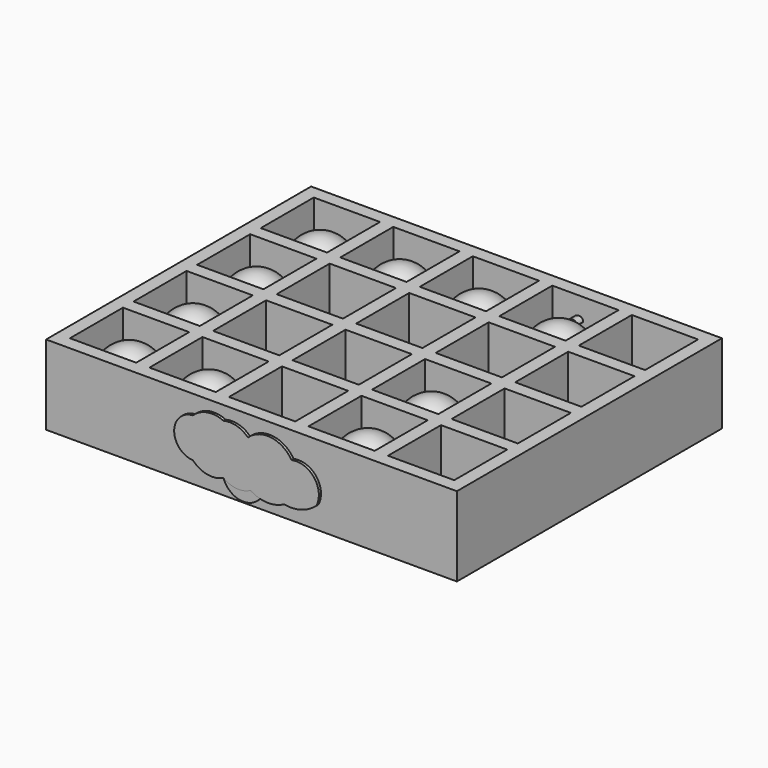
from build123d import *

# Parameters (mm, degrees)
F2_W      = 155
F2_H      = 125
F3_DEPTH  = 5
F4_W      = 155
F4_H      = 125
F4_W_2    = 25
F4_H_2    = 25
F5_DEPTH  = 25
F13_DEPTH = 3
F21_DEPTH = 1
F22_R     = 7.9297764806
F23_DEPTH = 0.75


with BuildPart() as f3:
    # F2 (on Top) → F3 (new body)
    with BuildSketch(Plane.XY):
        with Locations((0.9303614497, -12.7479173378)):
            Rectangle(F2_W, F2_H)
    extrude(amount=F3_DEPTH)

    # F4 (on face) → F5 (join)
    with BuildSketch(Plane.XY.offset(5)):
        with Locations((0.9303614497, -12.7479173378)):
            Rectangle(F4_W, F4_H)
        with Locations((-59.0696385503, -57.7479173378)):
            Rectangle(F4_W_2, F4_H_2, mode=Mode.SUBTRACT)
        with Locations((-29.0696385503, -57.7479173378)):
            Rectangle(F4_W_2, F4_H_2, mode=Mode.SUBTRACT)
        with Locations((-59.0696385503, -27.7479173378)):
            Rectangle(F4_W_2, F4_H_2, mode=Mode.SUBTRACT)
        with Locations((-29.0696385503, -27.7479173378)):
            Rectangle(F4_W_2, F4_H_2, mode=Mode.SUBTRACT)
        with Locations((0.9303614497, -57.7479173378)):
            Rectangle(F4_W_2, F4_H_2, mode=Mode.SUBTRACT)
        with Locations((30.9303614497, -57.7479173378)):
            Rectangle(F4_W_2, F4_H_2, mode=Mode.SUBTRACT)
        with Locations((60.9303614497, -57.7479173378)):
            Rectangle(F4_W_2, F4_H_2, mode=Mode.SUBTRACT)
        with Locations((0.9303614497, -27.7479173378)):
            Rectangle(F4_W_2, F4_H_2, mode=Mode.SUBTRACT)
        with Locations((30.9303614497, -27.7479173378)):
            Rectangle(F4_W_2, F4_H_2, mode=Mode.SUBTRACT)
        with Locations((60.9303614497, -27.7479173378)):
            Rectangle(F4_W_2, F4_H_2, mode=Mode.SUBTRACT)
        with Locations((-59.0696385503, 2.2520826622)):
            Rectangle(F4_W_2, F4_H_2, mode=Mode.SUBTRACT)
        with Locations((-29.0696385503, 2.2520826622)):
            Rectangle(F4_W_2, F4_H_2, mode=Mode.SUBTRACT)
        with Locations((-59.0696385503, 32.2520826622)):
            Rectangle(F4_W_2, F4_H_2, mode=Mode.SUBTRACT)
        with Locations((-29.0696385503, 32.2520826622)):
            Rectangle(F4_W_2, F4_H_2, mode=Mode.SUBTRACT)
        with Locations((0.9303614497, 2.2520826622)):
            Rectangle(F4_W_2, F4_H_2, mode=Mode.SUBTRACT)
        with Locations((30.9303614497, 2.2520826622)):
            Rectangle(F4_W_2, F4_H_2, mode=Mode.SUBTRACT)
        with Locations((60.9303614497, 2.2520826622)):
            Rectangle(F4_W_2, F4_H_2, mode=Mode.SUBTRACT)
        with Locations((0.9303614497, 32.2520826622)):
            Rectangle(F4_W_2, F4_H_2, mode=Mode.SUBTRACT)
        with Locations((30.9303614497, 32.2520826622)):
            Rectangle(F4_W_2, F4_H_2, mode=Mode.SUBTRACT)
        with Locations((60.9303614497, 32.2520826622)):
            Rectangle(F4_W_2, F4_H_2, mode=Mode.SUBTRACT)
    extrude(amount=F5_DEPTH)


with BuildPart() as f8:
    # F7 (on offset) → F8 (revolve)
    with BuildSketch(Plane.XZ.offset(-32.2520826622)):
        with BuildLine():
            Line((-59.201605618, 27), (-59.201605618, 5))
            ThreePointArc((-59.201605618, 5), (-48.201605618, 16), (-59.201605618, 27))
        make_face()
    revolve(axis=Axis((-59.201605618, 32.2520826622, 16), (0, 0, 1)))


with BuildPart() as f9_1:
    # F9: copy of F8
    add(f8.part.moved(Location((30, 0, 0))))


with BuildPart() as f10_1:
    # F10: copy of F9_1
    add(f9_1.part.moved(Location((30, 0, 0))))


with BuildPart() as f11_1:
    # F11: copy of F10_1
    add(f10_1.part.moved(Location((30, 0, 0))))


with BuildPart() as f13:
    # F12 (on face) → F13 (new body)
    with BuildSketch(Plane.XZ.offset(-44.7520826622)):
        with BuildLine():
            add(Edge.make_bspline(
                [(26.5906639397, 22.1947636455), (26.6745791003, 22.7662725429), (29.0443807028, 24.000067625), (30.7595576466, 21.5087950265), (28.182591918, 20.8331535894), (26.5178643051, 21.6989576601), (26.5906639397, 22.1947636455)],
                knots=[0, 0, 0, 0, 0.2762395055, 0.514479703, 0.760351587, 1, 1, 1, 1], degree=3))
        make_face()
    extrude(amount=F13_DEPTH)


with BuildPart() as f14_1:
    # F14: copy of F8
    add(f8.part.moved(Location((0, -30, 0))))


with BuildPart() as f15_1:
    # F15: copy of F14_1
    add(f14_1.part.moved(Location((0, -30, 0))))


with BuildPart() as f16_1:
    # F16: copy of F15_1
    add(f15_1.part.moved(Location((90, 0, 0))))


with BuildPart() as f17_1:
    # F17: copy of F15_1
    add(f15_1.part.moved(Location((0, -30, 0))))


with BuildPart() as f18_1:
    # F18: copy of F17_1
    add(f17_1.part.moved(Location((30, 0, 0))))


with BuildPart() as f19_1:
    # F19: copy of F18_1
    add(f18_1.part.moved(Location((60, 0, 0))))


with BuildPart() as f21:
    # F20 (on face) → F21 (new body)
    with BuildSketch(Plane.XZ.offset(75.2479173378)):
        with BuildLine():
            ThreePointArc((-8.8187816294, 25.4081484305), (-14.900103785, 26.2255026877), (-20.3775379412, 23.4599535186))
            ThreePointArc((-20.3775379412, 23.4599535186), (-27.4413084136, 16.0073899584), (-20.3775379412, 8.5548263981))
            ThreePointArc((-20.3775379412, 8.5548263981), (-17.8989232914, 6.6393897427), (-14.945018368, 5.5968573131))
            ThreePointArc((-14.945018368, 5.5968573131), (-11.8132064734, 5.5321856818), (-8.8187816294, 6.4518856418))
            ThreePointArc((-8.8187816294, 6.4518856418), (-3.8593924196, 4.5090179749), (1.355562426, 5.592771666))
            ThreePointArc((1.355562426, 5.592771666), (1.4909286584, 5.5064189408), (1.6274012582, 5.4218255636))
            ThreePointArc((1.6274012582, 5.4218255636), (7.7639897873, 3.6070680203), (13.9885294984, 5.0923858653))
            ThreePointArc((13.9885294984, 5.0923858653), (20.4875085805, 5.4173297955), (26.1882482462, 8.5548263981))
            ThreePointArc((26.1882482462, 8.5548263981), (25.4006051162, 17.6293191215), (16.8296655026, 20.7124658951))
            ThreePointArc((16.8296655026, 20.7124658951), (9.1287688398, 25.7155239177), (0.4019456336, 22.8559862422))
            ThreePointArc((0.4019456336, 22.8559862422), (-3.8658215024, 25.3698369658), (-8.8187816294, 25.4081484305))
        make_face()
    extrude(amount=F21_DEPTH)


with BuildPart() as f23:
    # F22 (on face) → F23 (new body)
    with BuildSketch(Plane.XZ.offset(75.2479173378)):
        with Locations((-1.4888952719, 8.7685808539)):
            Circle(F22_R)
    extrude(amount=F23_DEPTH)


solid = Compound([f3.part, f8.part, f9_1.part, f10_1.part, f11_1.part, f13.part, f14_1.part, f15_1.part, f16_1.part, f17_1.part, f18_1.part, f19_1.part, f21.part, f23.part])
